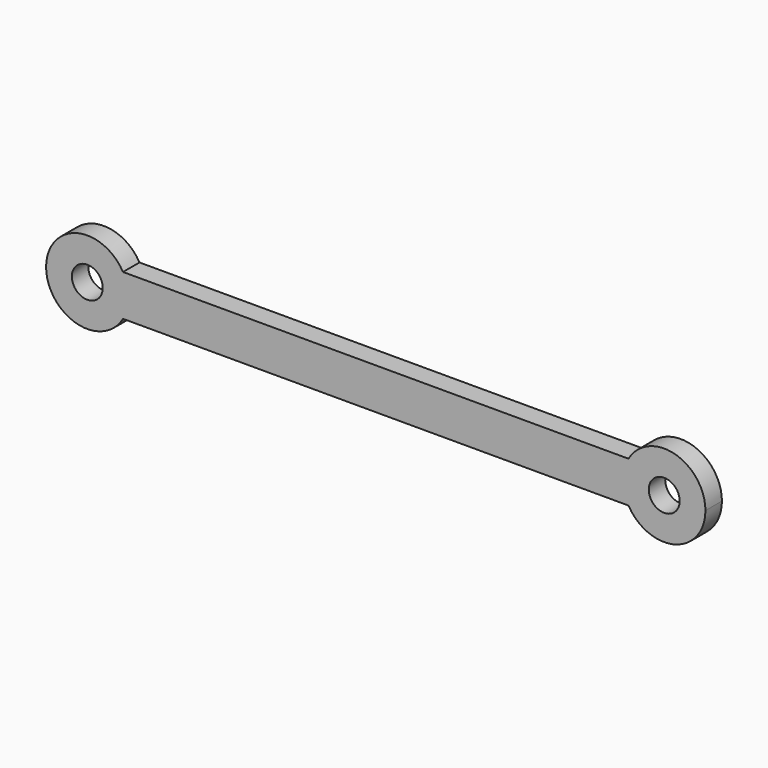
from build123d import *

# Parameters (mm, degrees)
F1_DEPTH = 3.175
F2_D     = 4.7625
F3_D     = 4.7625


with BuildPart() as f1:
    # F0 (on Front) → F1 (new body)
    with BuildSketch(Plane.XZ):
        with BuildLine():
            Line((40.6890114234, 6.6018716117), (-37.1726150847, 6.6018716117))
            ThreePointArc((-37.1726150847, 6.6018716117), (-36.5382474018, 5.0703725481), (-36.3218763988, 3.4268716117))
            ThreePointArc((-36.3218763988, 3.4268716117), (-36.5382474018, 1.7833706753), (-37.1726150847, 0.2518716117))
            Line((-37.1726150847, 0.2518716117), (40.6890110201, 0.2518716117))
            ThreePointArc((40.6890110201, 0.2518716117), (39.8382725358, 3.4268716658), (40.6890114234, 6.6018716117))
        make_face()
        with BuildLine():
            Line((-37.1726150847, 6.6018716117), (-42.6718763988, 6.6018716117))
            Line((-42.6718763988, 6.6018716117), (-42.6718763988, 0.2518716117))
            Line((-42.6718763988, 0.2518716117), (-37.1726150847, 0.2518716117))
            ThreePointArc((-37.1726150847, 0.2518716117), (-36.5382474018, 1.7833706753), (-36.3218763988, 3.4268716117))
            ThreePointArc((-36.3218763988, 3.4268716117), (-36.5382474018, 5.0703725481), (-37.1726150847, 6.6018716117))
        make_face()
        with BuildLine():
            Line((-42.6718763988, 0.2518716117), (-42.6718763988, 6.6018716117))
            Line((-42.6718763988, 6.6018716117), (-37.1726150847, 6.6018716117))
            ThreePointArc((-37.1726150847, 6.6018716117), (-49.0218763988, 3.4268716117), (-37.1726150847, 0.2518716117))
            Line((-37.1726150847, 0.2518716117), (-42.6718763988, 0.2518716117))
        make_face()
        with BuildLine():
            ThreePointArc((52.5382725358, 3.4268712625), (47.831773667, 9.5605002072), (40.6890114234, 6.6018716117))
            Line((40.6890114234, 6.6018716117), (46.2281236012, 6.6018716117))
            Line((46.2281236012, 6.6018716117), (46.2281236012, 0.2518716117))
            Line((46.2281236012, 0.2518716117), (40.6890110201, 0.2518716117))
            ThreePointArc((40.6890110201, 0.2518716117), (47.8317732774, -2.7067577866), (52.5382725358, 3.4268712625))
        make_face()
        with BuildLine():
            Line((46.2281236012, 6.6018716117), (40.6890114234, 6.6018716117))
            ThreePointArc((40.6890114234, 6.6018716117), (39.8382725358, 3.4268716658), (40.6890110201, 0.2518716117))
            Line((40.6890110201, 0.2518716117), (46.2281236012, 0.2518716117))
            Line((46.2281236012, 0.2518716117), (46.2281236012, 6.6018716117))
        make_face()
    extrude(amount=F1_DEPTH)

    # F2 (through all)
    with Locations(Plane(origin=(0, 0, 0), x_dir=(1, 0, 0), z_dir=(0, 1, 0))):
        with Locations((-42.6718763988, -3.4268716117)):
            Hole(F2_D / 2)

    # F3 (through all)
    with Locations(Plane(origin=(0, 0, 0), x_dir=(1, 0, 0), z_dir=(0, 1, 0))):
        with Locations((46.1882725358, -3.4268712625)):
            Hole(F3_D / 2)


solid = f1.part
